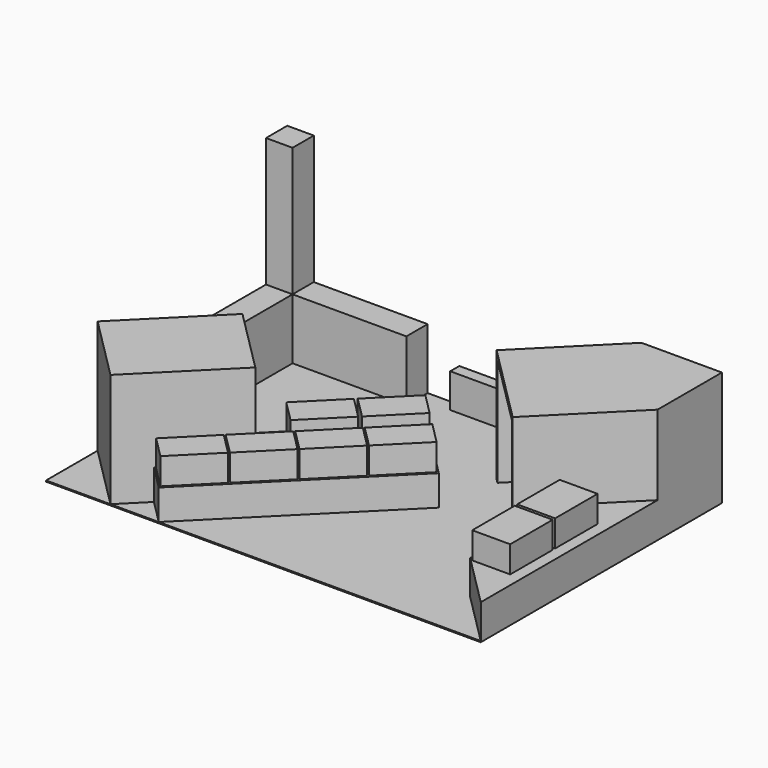
from build123d import *

# Parameters (mm, degrees)
F0_W      = 5729
F0_H      = 3973
F1_DEPTH  = 15
F3_W      = 350
F3_H      = 350
F4_DEPTH  = 2500
F5_DEPTH  = 1500
F6_W      = 1500
F6_H      = 350
F6_W_2    = 350
F6_H_2    = 1500
F7_DEPTH  = 800
F9_DEPTH  = 450
F11_DEPTH = 400
F13_DEPTH = 350
F14_W     = 500
F14_H     = 700
F15_DEPTH = 350
F16_W     = 1350
F16_H     = 1425
F17_DEPTH = 1500


with BuildPart() as f1:
    # F0 (on Top) → F1 (new body)
    with BuildSketch(Plane.XY):
        with Locations((149.2468051165, 157.678600383)):
            Rectangle(F0_W, F0_H)
    extrude(amount=F1_DEPTH)

    # F3 (on face) → F4 (join)
    with BuildSketch(Plane.XY.offset(15)):
        with Locations((-2540.2531948835, 1969.178600383)):
            Rectangle(F3_W, F3_H)
    extrude(amount=F4_DEPTH)

    # F2 (on face) → F5 (join)
    with BuildSketch(Plane.XY.offset(15)):
        Polygon((-1654.5930231036, 80.3669095867), (-2715.2531948835, -980.2932621931), (-1866.7250574596, -1828.821399617), (-806.0648856798, -768.1612278371), align=None)
        Polygon((3013.7468051165, 2144.178600383), (1953.0866333367, 2144.178600383), (892.4264615569, 1083.5184286032), (1953.0866333367, 22.8582568234), (3013.7468051165, 1083.5184286032), align=None)
    extrude(amount=F5_DEPTH)

    # F6 (on face) → F7 (join)
    with BuildSketch(Plane.XY.offset(15)):
        with Locations((-1615.2531948835, 1969.178600383)):
            Rectangle(F6_W, F6_H)
        with Locations((-2540.2531948835, 1044.178600383)):
            Rectangle(F6_W_2, F6_H_2)
    extrude(amount=F7_DEPTH)

    # F8 (on face) → F9 (join)
    with BuildSketch(Plane.XY.offset(15)):
        Polygon((1626.3099380401, 1817.4019050864), (1953.0866333367, 2144.178600383), (-446.9133666633, 2144.178600383), (-446.9133666633, 1994.178600383), (1237.4012083875, 1994.178600383), (1343.4672255655, 2100.244617561), align=None)
        Polygon((3013.7468051165, 1083.5184286032), (2313.7468051165, 383.5184286032), (2313.7468051165, -1128.821399617), (3013.7468051165, -1828.821399617), align=None)
    extrude(amount=F9_DEPTH)

    # F10 (on face) → F11 (join)
    with BuildSketch(Plane.XY.offset(15)):
        Polygon((820.2807110493, 221.788265824), (42.4632517441, 999.6057251292), (-1265.684293451, -308.5418200659), (-806.0648856798, -768.1612278371), (-1548.5270059257, -1510.623348083), (-1230.3289543917, -1828.821399617), align=None)
    extrude(amount=F11_DEPTH)

    # F12 (on face) → F13 (join)
    with BuildSketch(Plane.XY.offset(415)):
        Polygon((-1021.7324539417, -1019.1841351584), (-1516.7072007723, -1514.1588819889), (-1233.8644882976, -1797.0015944636), (-738.8897414671, -1302.026847633), align=None)
        Polygon((-512.6155955462, -510.0672286452), (-1007.5903423768, -1005.0419754758), (-724.7476299021, -1287.8846879504), (-229.7728830716, -792.9099411198), align=None)
        Polygon((-3.4987371507, -0.9503221321), (-498.4734839813, -495.9250689627), (-215.6307715066, -778.7677814373), (279.3439753239, -283.7930346067), align=None)
        Polygon((-477.260232428, 444.5269018978), (-972.2349792586, -50.4478449328), (-689.392266784, -333.2905574074), (-194.4175199534, 161.6841894232), align=None)
        Polygon((45.99878565, 967.7859199758), (-448.9759611806, 472.8111731453), (-166.133248706, 189.9684606706), (328.8414981246, 684.9432075012), align=None)
        Polygon((505.6181934213, 508.1665122046), (10.6434465907, 13.191765374), (293.4861590653, -269.6509471006), (788.4609058959, 225.32379973), align=None)
    extrude(amount=F13_DEPTH)

    # F14 (on face) → F15 (join)
    with BuildSketch(Plane.XY.offset(465)):
        with Locations((2613.7468051165, -66.4815713968)):
            Rectangle(F14_W, F14_H)
        with Locations((2613.7468051165, -806.4815713968)):
            Rectangle(F14_W, F14_H)
    extrude(amount=F15_DEPTH)

    # F16 (on face) → F17 (cut, through all)
    with BuildSketch(Plane(origin=(987.9724450801, 987.9724450801, 0), x_dir=(0.7071067812, -0.7071067812, 0), z_dir=(-0.7071067812, -0.7071067812, 0))):
        with Locations((614.8775742713, 727.5)):
            Rectangle(F16_W, F16_H)
    extrude(amount=-F17_DEPTH, mode=Mode.SUBTRACT)


solid = f1.part
